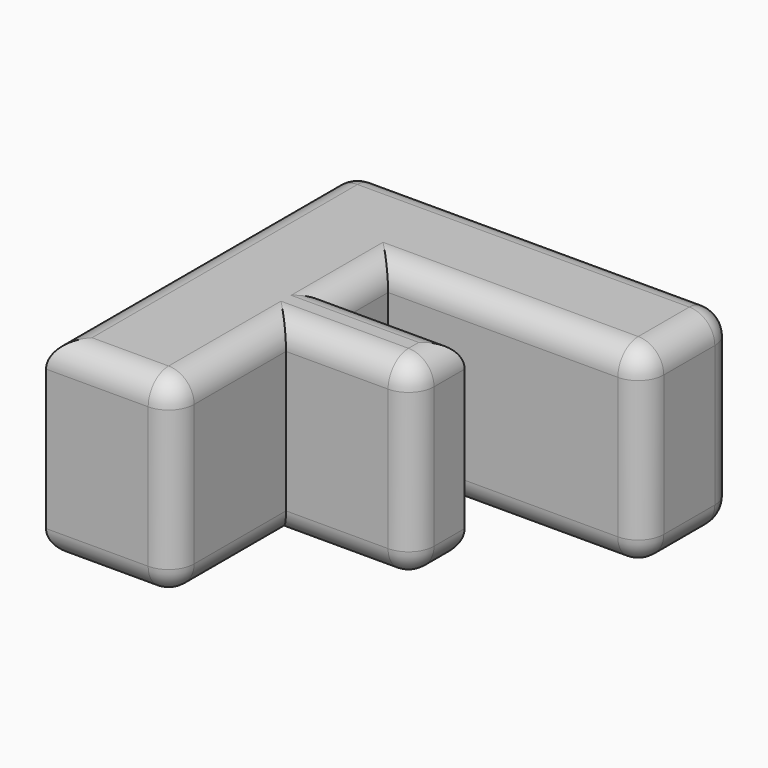
from build123d import *

# Parameters (mm, degrees)
F1_DEPTH = 15
F2_R     = 2


with BuildPart() as f1:
    # F0 (on Top) → F1 (new body)
    with BuildSketch(Plane.XY):
        Polygon((0, 30), (0, 0), (10, 0), (10, 11), (20, 11), (20, 16), (10, 16), (10, 21), (30, 21), (30, 30), align=None)
    extrude(amount=F1_DEPTH)

    # F2
    f2_edges = [f1.edges().sort_by_distance(p)[0] for p in [
        (30, 21, 7.5),
        (30, 30, 7.5),
        (30, 25.5, 0),
        (30, 25.5, 15),
        (20, 11, 7.5),
        (10, 0, 7.5),
        (20, 21, 0),
        (15, 30, 15),
        (0, 15, 0),
        (5, 0, 0),
        (10, 5.5, 0),
        (15, 11, 0),
        (20, 13.5, 0),
        (15, 16, 0),
        (10, 18.5, 0),
        (15, 30, 0),
        (0, 30, 7.5),
        (0, 15, 15),
        (5, 0, 15),
        (10, 5.5, 15),
        (15, 11, 15),
        (20, 13.5, 15),
        (15, 16, 15),
        (10, 18.5, 15),
        (20, 21, 15),
    ]]
    fillet(f2_edges, radius=F2_R)


solid = f1.part
